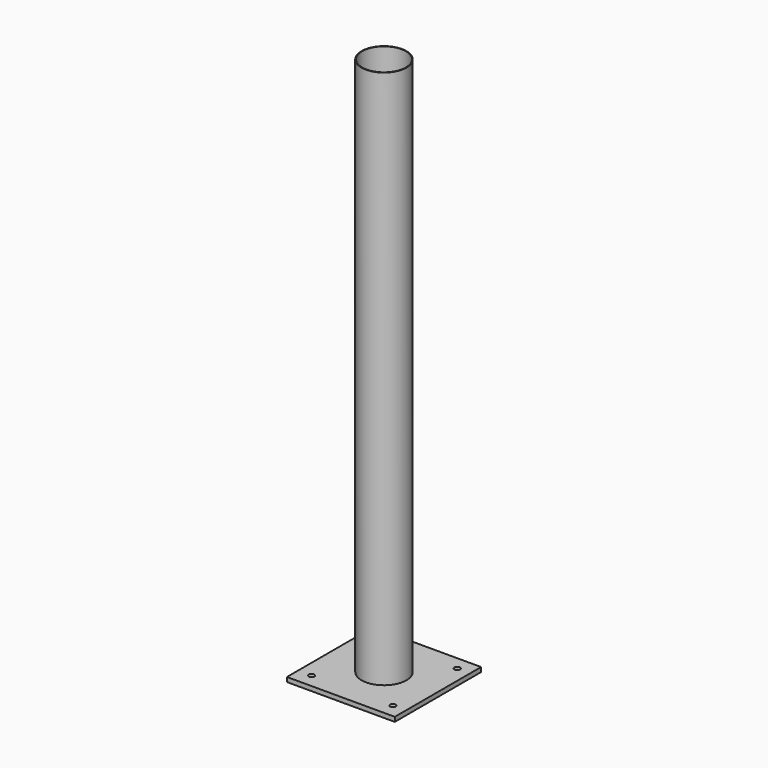
from build123d import *

# Parameters (mm, degrees)
F0_W      = 609.6
F0_H      = 25.4
F1_DEPTH  = 304.8
F1_FACE_W = 609.6
F1_FACE_H = 25.4
F2_DEPTH  = 304.8
F3_R      = 127
F3_R_2    = 123.825
F4_DEPTH  = 3048
F6_D      = 31.75


with BuildPart() as f1:
    # F0 (on Front) → F1 (new body)
    with BuildSketch(Plane.XZ):
        Rectangle(F0_W, F0_H)
    extrude(amount=F1_DEPTH)

    # F1_face (on face) → F2 (join)
    with BuildSketch(Plane(origin=(0, 0, 0), x_dir=(1, 0, 0), z_dir=(0, 1, 0))):
        Rectangle(F1_FACE_W, F1_FACE_H)
    extrude(amount=F2_DEPTH)

    # F3 (on face) → F4 (join)
    with BuildSketch(Plane.XY.offset(12.7)):
        Circle(F3_R)
        Circle(F3_R_2, mode=Mode.SUBTRACT)
    extrude(amount=F4_DEPTH)

    # F6 (through all)
    with Locations(Plane.XY.offset(12.7)):
        with Locations((-228.6, 228.6), (-228.6, -226.06), (231.14, -226.06), (231.14, 228.6)):
            Hole(F6_D / 2)


solid = f1.part
